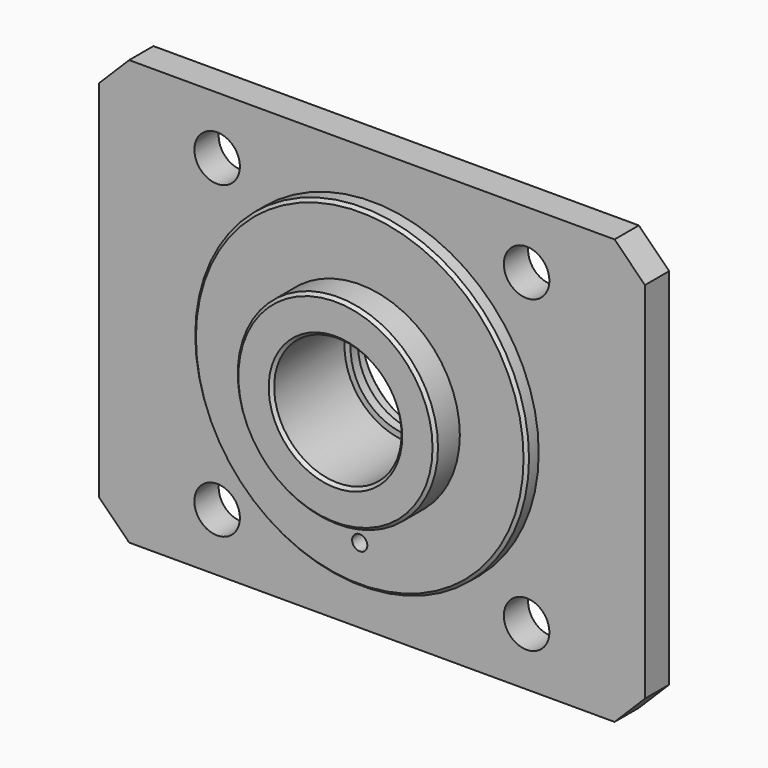
from build123d import *

# Parameters (mm, degrees)
F0_W          = 180
F0_H          = 140
F0_R          = 55
F1_DEPTH      = 10
F0_R_2        = 33
F2_DEPTH      = 15
F0_R_3        = 19
F3_DEPTH      = 25
F3_DEPTH_BACK = 15
F4_R          = 21
F4_R_2        = 19
F5_DEPTH      = 30
F6_R          = 22.5
F6_R_2        = 19
F7_DEPTH      = 7
F9_D          = 15
F11_D         = 5
F12_SIZE2     = 10
F12_SIZE      = 10
F13_SIZE2     = 5
F13_SIZE      = 5
F14_SIZE2     = 2
F14_SIZE      = 2
F15_SIZE2     = 1
F15_SIZE      = 1


with BuildPart() as f1:
    # F0 (on Front) → F1 (new body)
    with BuildSketch(Plane.XZ):
        Rectangle(F0_W, F0_H)
        Circle(F0_R, mode=Mode.SUBTRACT)
    extrude(amount=F1_DEPTH)

    # F0 (on Front) → F2 (join)
    with BuildSketch(Plane.XZ):
        Circle(F0_R)
        Circle(F0_R_2, mode=Mode.SUBTRACT)
    extrude(amount=F2_DEPTH)

    # F0 (on Front) → F3 (join, two sides)
    with BuildSketch(Plane.XZ) as f3_sk:
        Circle(F0_R_2)
        Circle(F0_R_3, mode=Mode.SUBTRACT)
    extrude(amount=F3_DEPTH)
    extrude(f3_sk.sketch, amount=-F3_DEPTH_BACK)

    # F4 (on face) → F5 (cut)
    with BuildSketch(Plane.XZ.offset(25)):
        Circle(F4_R)
        Circle(F4_R_2, mode=Mode.SUBTRACT)
    extrude(amount=-F5_DEPTH, mode=Mode.SUBTRACT)

    # F6 (on face) → F7 (cut)
    with BuildSketch(Plane(origin=(0, 15, 0), x_dir=(-1, 0, 0), z_dir=(0, 1, 0))):
        Circle(F6_R)
        Circle(F6_R_2, mode=Mode.SUBTRACT)
    extrude(amount=-F7_DEPTH, mode=Mode.SUBTRACT)

    # F9 (through all)
    with Locations(Plane.XZ.offset(10)):
        with Locations((-51, 51), (51, 51), (51, -51), (-51, -51)):
            Hole(F9_D / 2)

    # F11 (through all)
    with Locations(Plane.XZ.offset(15)):
        with Locations((0, -42)):
            Hole(F11_D / 2)

    # F12
    f12_edges = [f1.edges().sort_by_distance(p)[0] for p in [
        (-90, -5, 70),
        (-90, -5, -70),
        (90, -5, 70),
        (90, -5, -70),
    ]]
    chamfer(f12_edges, length=F12_SIZE, length2=F12_SIZE2)

    # F13
    f13_edges = [f1.edges().sort_by_distance(p)[0] for p in [
        (-33, 0, 0),
    ]]
    chamfer(f13_edges, length=F13_SIZE, length2=F13_SIZE2)

    # F14
    f14_edges = [f1.edges().sort_by_distance(p)[0] for p in [
        (-33, 15, 0),
    ]]
    chamfer(f14_edges, length=F14_SIZE, length2=F14_SIZE2)

    # F15
    f15_edges = [f1.edges().sort_by_distance(p)[0] for p in [
        (22.5, 15, 0),
        (-21, -25, 0),
        (-33, -25, 0),
        (-55, -15, 0),
    ]]
    chamfer(f15_edges, length=F15_SIZE, length2=F15_SIZE2)


solid = f1.part
